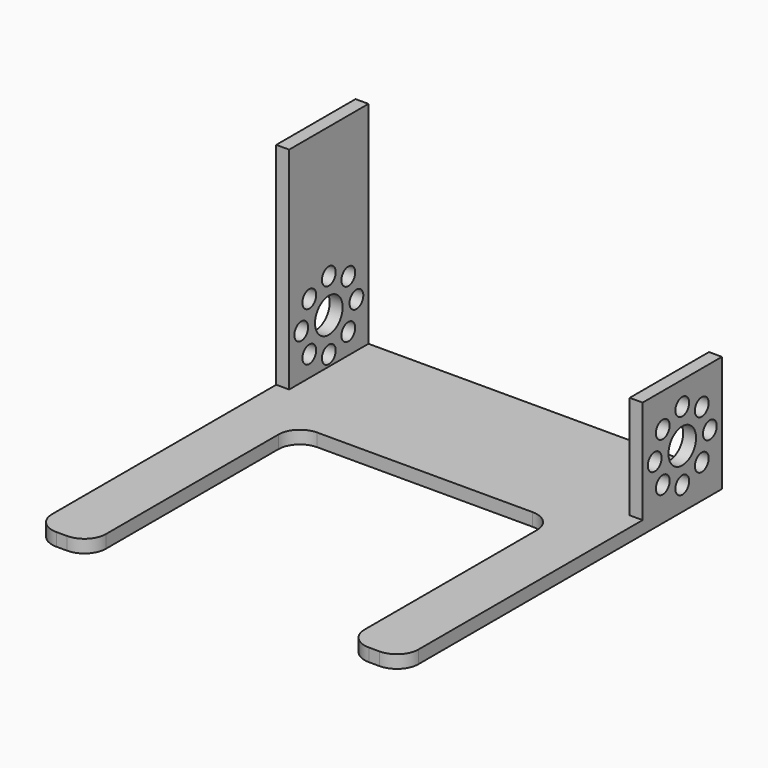
from build123d import *

# Parameters (mm, degrees)
F0_W     = 85
F0_H     = 23
F1_DEPTH = 3
F2_W     = 3
F2_H     = 23
F3_DEPTH = 24
F4_W     = 3
F4_H     = 23
F5_DEPTH = 25
F6_R     = 2
F6_R_2   = 4
F7_DEPTH = 100


with BuildPart() as f1:
    # F0 (on Top) → F1 (new body)
    with BuildSketch(Plane.XY):
        with Locations((42.5, 11.5)):
            Rectangle(F0_W, F0_H)
        with BuildLine():
            Line((85, 0), (0, 0))
            Line((0, 0), (0, -10))
            Line((0, -10), (0, -65))
            ThreePointArc((0, -65), (1.464466, -68.535534), (5, -70))
            Line((5, -70), (7.5, -70))
            ThreePointArc((7.5, -70), (11.035534, -68.535534), (12.5, -65))
            Line((12.5, -65), (12.5, -15))
            ThreePointArc((12.5, -15), (13.964466, -11.464466), (17.5, -10))
            Line((17.5, -10), (67.5, -10))
            ThreePointArc((67.5, -10), (71.035534, -11.464466), (72.5, -15))
            Line((72.5, -15), (72.5, -65))
            ThreePointArc((72.5, -65), (73.964466, -68.535534), (77.5, -70))
            Line((77.5, -70), (80, -70))
            ThreePointArc((80, -70), (83.535534, -68.535534), (85, -65))
            Line((85, -65), (85, -10))
            Line((85, -10), (85, 0))
        make_face()
    extrude(amount=F1_DEPTH)

    # F2 (on face) → F3 (join)
    with BuildSketch(Plane.XY.offset(3)):
        with Locations((1.5, 11.5)):
            Rectangle(F2_W, F2_H)
        with Locations((83.5, 11.5)):
            Rectangle(F2_W, F2_H)
    extrude(amount=F3_DEPTH)

    # F4 (on face) → F5 (join)
    with BuildSketch(Plane.XY.offset(27)):
        with Locations((1.5, 11.5)):
            Rectangle(F4_W, F4_H)
    extrude(amount=F5_DEPTH)

    # F6 (on face) → F7 (cut)
    with BuildSketch(Plane.YZ.offset(85)):
        with Locations((19.5, 13.5)):
            Circle(F6_R)
        with Locations((17.156854, 19.156854)):
            Circle(F6_R)
        with Locations((11.5, 21.5)):
            Circle(F6_R)
        with Locations((5.843146, 19.156854)):
            Circle(F6_R)
        with Locations((3.5, 13.5)):
            Circle(F6_R)
        with Locations((5.843146, 7.843146)):
            Circle(F6_R)
        with Locations((11.5, 5.5)):
            Circle(F6_R)
        with Locations((17.156854, 7.843146)):
            Circle(F6_R)
        with Locations((11.5, 13.5)):
            Circle(F6_R_2)
    extrude(amount=-F7_DEPTH, mode=Mode.SUBTRACT)


solid = f1.part
